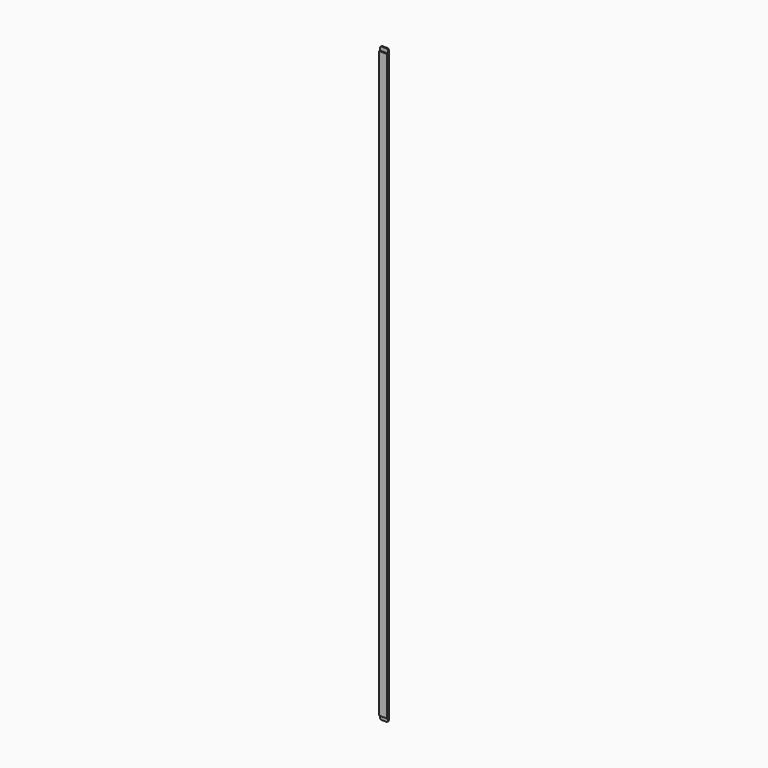
from build123d import *

# Parameters (mm, degrees)
F0_W     = 10
F0_H     = 760
F1_DEPTH = 3
F2_W     = 10
F2_H     = 5
F3_DEPTH = 1.5
F4_R     = 2


with BuildPart() as f1:
    # F0 (on Front) → F1 (new body)
    with BuildSketch(Plane.XZ):
        Rectangle(F0_W, F0_H)
    extrude(amount=F1_DEPTH)

    # F2 (on face) → F3 (cut)
    with BuildSketch(Plane.XZ.offset(3)):
        with Locations((0, 377.5)):
            Rectangle(F2_W, F2_H)
        with Locations((0, -377.5)):
            Rectangle(F2_W, F2_H)
    extrude(amount=-F3_DEPTH, mode=Mode.SUBTRACT)

    # F4
    f4_edges = [f1.edges().sort_by_distance(p)[0] for p in [
        (5, -0.75, -380),
        (-5, -0.75, -380),
        (-5, -0.75, 380),
        (5, -0.75, 380),
    ]]
    fillet(f4_edges, radius=F4_R)


solid = f1.part
